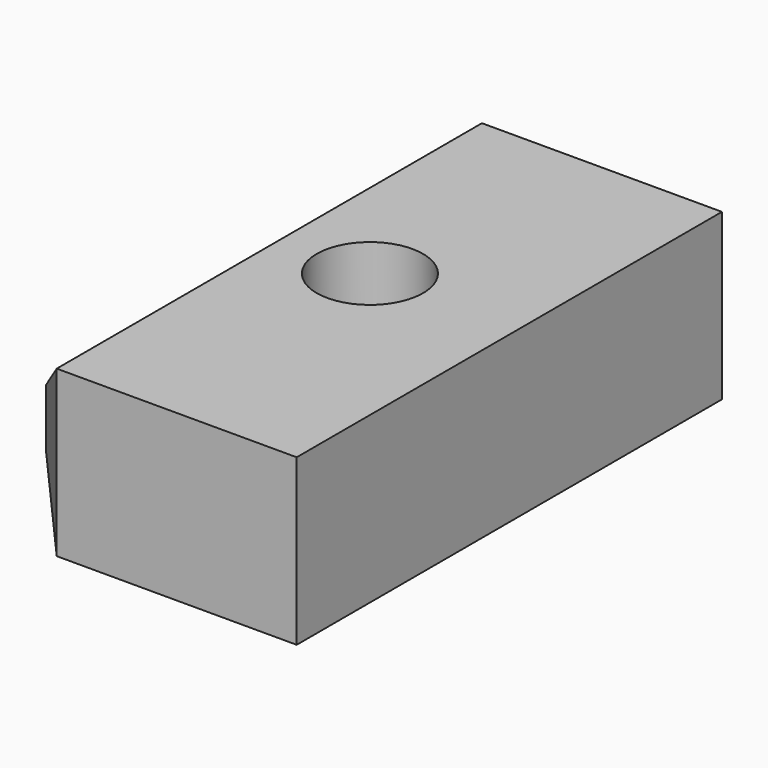
from build123d import *

# Parameters (mm, degrees)
F0_W     = 70.042707
F0_H     = 39.452329
F1_DEPTH = 127
F3_D     = 25.4
F4_SIZE  = 12.7


with BuildPart() as f1:
    # F0 (on Front) → F1 (new body)
    with BuildSketch(Plane.XZ):
        with Locations((35.021353, -19.726164)):
            Rectangle(F0_W, F0_H)
    extrude(amount=F1_DEPTH)

    # F3 (through all)
    with Locations(Plane.XY):
        with Locations((34.320448, -60.479335)):
            Hole(F3_D / 2)

    # F4
    f4_edges = [f1.edges().sort_by_distance(p)[0] for p in [
        (0, -63.5, 0),
        (0, -63.5, -39.452329),
        (0, 0, -19.726165),
        (0, -127, -19.726165),
    ]]
    chamfer(f4_edges, length=F4_SIZE)


solid = f1.part
